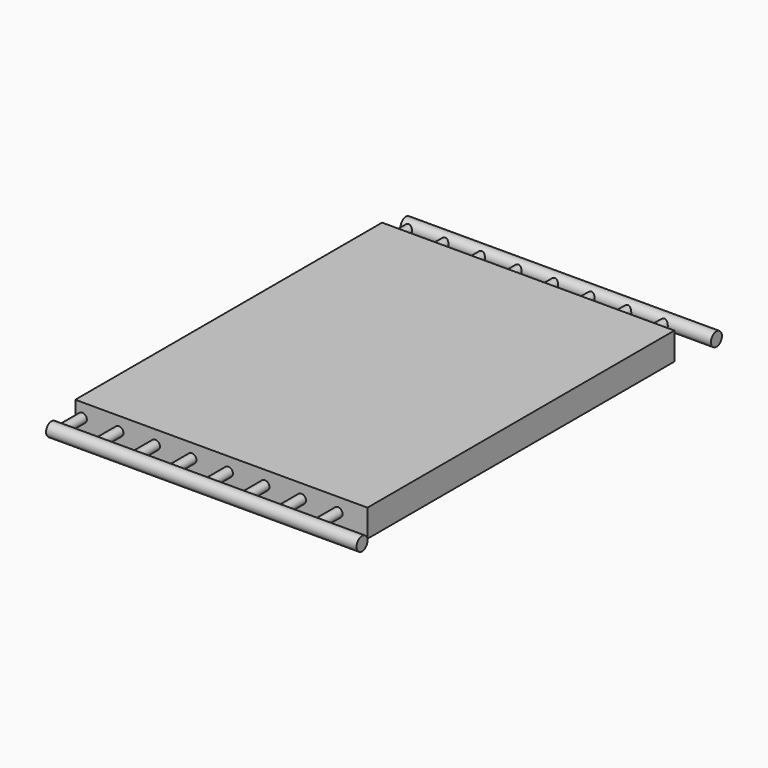
from build123d import *

# Parameters (mm, degrees)
CYLINDER002_R          = 6.35
CYLINDER002_DEPTH      = 615.95
CYLINDER002_ROLL_ANGLE = 90
CUBE_W                 = 406.4
CUBE_H                 = 533.4
CUBE_DEPTH             = 38.1
CYLINDER_R             = 9.525
CYLINDER_DEPTH         = 431.8


with BuildPart() as cylinder002:
    # cylinder002 → cylinder002 (new body)
    with BuildSketch(Plane.XY):
        Circle(CYLINDER002_R)
    extrude(amount=CYLINDER002_DEPTH)


with BuildPart() as cylinder002_1:
    # cylinder002 roll: moved
    add(cylinder002.part.rotate(Axis((0, 0, 0), (1, 0, 0)), CYLINDER002_ROLL_ANGLE))


with BuildPart() as cylinder002_2:
    # cylinder002 placement: moved
    add(cylinder002_1.part.moved(Location((-74.4, 436.46, 6.35))))


with BuildPart() as clone_of_exchange006:
    # Clone006 base: copy of cylinder002
    add(cylinder002_2.part)


with BuildPart() as clone_of_exchange006_1:
    # Clone006 placement: moved
    add(clone_of_exchange006.part.moved(Location((355.6, 0, 0))))


with BuildPart() as clone_of_exchange003:
    # Clone003 base: copy of cylinder002
    add(cylinder002_2.part)


with BuildPart() as clone_of_exchange003_1:
    # Clone003 placement: moved
    add(clone_of_exchange003.part.moved(Location((203.2, 0, 0))))


with BuildPart() as clone_of_exchange001:
    # Clone base: copy of cylinder002
    add(cylinder002_2.part)


with BuildPart() as clone_of_exchange001_1:
    # Clone placement: moved
    add(clone_of_exchange001.part.moved(Location((101.6, 0, 0))))


with BuildPart() as clone_of_exchange005:
    # Clone005 base: copy of cylinder002
    add(cylinder002_2.part)


with BuildPart() as clone_of_exchange005_1:
    # Clone005 placement: moved
    add(clone_of_exchange005.part.moved(Location((304.8, 0, 0))))


with BuildPart() as fins:
    # cube → cube (new body)
    with BuildSketch(Plane(origin=(-84.2, -135.04, -12.7), x_dir=(1, 0, 0), z_dir=(0, 0, 1))):
        with Locations((203.2, 266.7)):
            Rectangle(CUBE_W, CUBE_H)
    extrude(amount=CUBE_DEPTH)


with BuildPart() as clone_of_exchange:
    # Clone007 base: copy of cylinder002
    add(cylinder002_2.part)


with BuildPart() as clone_of_exchange_1:
    # Clone007 placement: moved
    add(clone_of_exchange.part.moved(Location((50.8, 0, 0))))


with BuildPart() as cylinder:
    # cylinder → cylinder (new body)
    with BuildSketch(Plane(origin=(-84.2, -176.2262, 6.35), x_dir=(0, -1, 0), z_dir=(1, 0, 0))):
        Circle(CYLINDER_R)
    extrude(amount=CYLINDER_DEPTH)


with BuildPart() as clone_of_distribution:
    # Clone008 base: copy of cylinder
    add(cylinder.part)


with BuildPart() as clone_of_distribution_1:
    # Clone008 placement: moved
    add(clone_of_distribution.part.moved(Location((0, 616.1024, 0))))


with BuildPart() as clone_of_exchange002:
    # Clone002 base: copy of cylinder002
    add(cylinder002_2.part)


with BuildPart() as clone_of_exchange002_1:
    # Clone002 placement: moved
    add(clone_of_exchange002.part.moved(Location((152.4, 0, 0))))


with BuildPart() as clone_of_exchange004:
    # Clone004 base: copy of cylinder002
    add(cylinder002_2.part)


with BuildPart() as clone_of_exchange004_1:
    # Clone004 placement: moved
    add(clone_of_exchange004.part.moved(Location((254, 0, 0))))


with BuildPart() as fusion:
    # Fusion base: copy of cylinder
    add(cylinder.part)

    # Fusion: union Clone of exchange006, Clone of exchange003, Clone of exchange001, Clone of exchange005, fins, Clone of exchange, cylinder002, Clone of distribution, Clone of exchange002, Clone of exchange004
    add(clone_of_exchange006_1.part)
    add(clone_of_exchange003_1.part)
    add(clone_of_exchange001_1.part)
    add(clone_of_exchange005_1.part)
    add(fins.part)
    add(clone_of_exchange_1.part)
    add(cylinder002_2.part)
    add(clone_of_distribution_1.part)
    add(clone_of_exchange002_1.part)
    add(clone_of_exchange004_1.part)


solid = fusion.part
